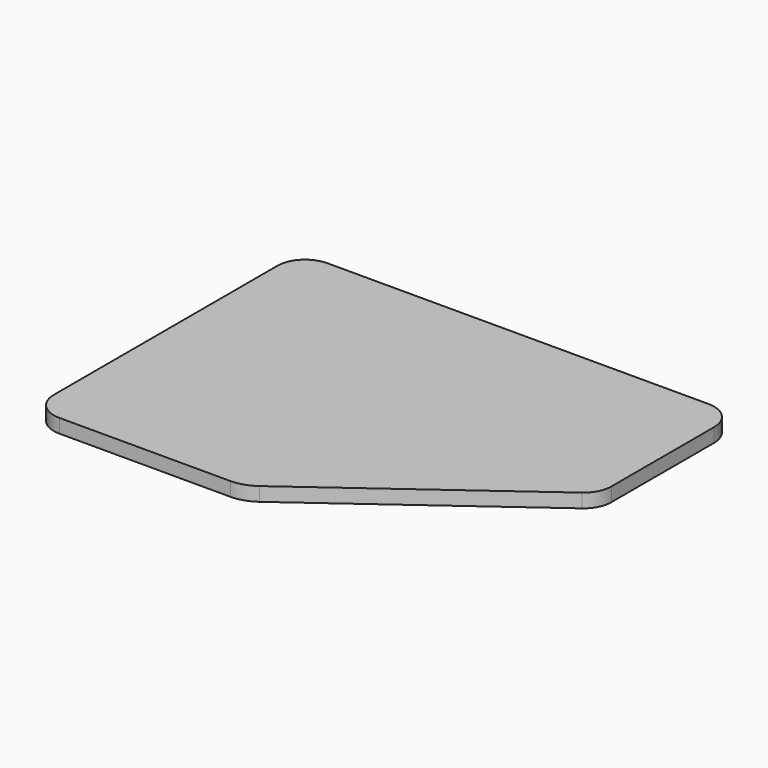
from build123d import *

# Parameters (mm, degrees)
PAD006_DEPTH    = 0.3
POCKET015_DEPTH = 0.001
SKETCH023_W     = 0.500416358
SKETCH023_H     = 5.002047251
SKETCH023_W_2   = 0.25
SKETCH023_W_3   = 0.461841
POCKET016_DEPTH = 0.001


with BuildPart() as part:
    # Sketch021 (on Face1 of Binder006) → Pad006 (new body)
    with BuildSketch(Plane(origin=(0, 0, -9.9), x_dir=(1, 0, 0), z_dir=(0, 0, -1))):
        with BuildLine():
            Line((7.38, 7.32), (7.38, 1.28))
            ThreePointArc((7.38, 1.28), (7.5557359313, 0.8557359313), (7.98, 0.68))
            Line((7.98, 0.68), (16.22, 0.68))
            ThreePointArc((16.22, 0.68), (16.6442640687, 0.8557359313), (16.82, 1.28))
            Line((16.82, 1.28), (16.82, 4.0593629773))
            ThreePointArc((16.82, 4.0593629773), (16.7549416454, 4.3310934246), (16.5738752133, 4.543896086))
            Line((16.5738752133, 4.543896086), (12.1752198046, 7.7564219039))
            ThreePointArc((12.1752198046, 7.7564219039), (11.9375643517, 7.8780713515), (11.6738965857, 7.92))
            Line((11.6738965857, 7.92), (7.98, 7.92))
            ThreePointArc((7.98, 7.92), (7.5557359313, 7.7442640687), (7.38, 7.32))
        make_face()
    extrude(amount=PAD006_DEPTH)

    # Sketch022 (on Face12 of Pad006) → Pocket015 (cut)
    with BuildSketch(Plane(origin=(0, 0, -10.2), x_dir=(1, 0, 0), z_dir=(0, 0, -1))):
        with BuildLine():
            Line((8.5382272485, 6.6994467778), (8.5382272485, 1.9973995268))
            ThreePointArc((8.5382272485, 1.9973995268), (8.655384536, 1.7145568143), (8.9382272485, 1.5973995268))
            Line((8.9382272485, 1.5973995268), (15.4531796461, 1.5973995268))
            ThreePointArc((15.4531796461, 1.5973995268), (15.7360223586, 1.7145568143), (15.8531796461, 1.9973995268))
            Line((15.8531796461, 1.9973995268), (15.8531796461, 4.0046213992))
            ThreePointArc((15.8531796461, 4.0046213992), (15.7989643506, 4.2310634386), (15.6480756572, 4.4083989897))
            Line((15.6480756572, 4.4083989897), (11.9634385277, 7.0994467778))
            Line((11.9634385277, 7.0994467778), (8.9382272485, 7.0994467778))
            ThreePointArc((8.9382272485, 7.0994467778), (8.655384536, 6.9822894903), (8.5382272485, 6.6994467778))
        make_face()
    extrude(amount=-POCKET015_DEPTH, mode=Mode.SUBTRACT)

    # Sketch023 (on Face22 of Pocket015) → Pocket016 (cut)
    with BuildSketch(Plane(origin=(0, 0, -10.199), x_dir=(1, 0, 0), z_dir=(0, 0, -1))):
        Polygon((15.2382783773, 4.3981150688), (15.2382783773, 1.8473995268), (15.6031796461, 1.8473995268), (15.6031796461, 4.1316120951), align=None)
        Polygon((14.9882783773, 4.580700741), (14.9882783773, 1.8473995268), (14.746011823, 1.8473995268), (14.746011823, 4.7576383477), align=None)
        Polygon((14.496011823, 4.9402240199), (14.496011823, 1.8473995268), (13.9360564118, 1.8473995268), (13.9360564118, 5.3491833605), align=None)
        Polygon((13.6860564118, 5.5317690326), (13.6860564118, 1.8473995268), (13.4437898574, 1.8473995268), (13.4437898574, 5.7087066393), align=None)
        Polygon((13.1937898574, 5.8912923115), (13.1937898574, 1.8473995268), (12.681865358, 1.8473995268), (12.681865358, 6.2651726269), align=None)
        Polygon((12.431865358, 6.447758299), (12.431865358, 1.8473995268), (12.131865358, 1.8473995268), (12.131865358, 6.6668611056), align=None)
        with Locations((11.631657179, 4.3484231523)):
            Rectangle(SKETCH023_W, SKETCH023_H)
        with Locations((11.006449, 4.3484231523)):
            Rectangle(SKETCH023_W_2, SKETCH023_H)
        with Locations((10.4005285, 4.3484231523)):
            Rectangle(SKETCH023_W_3, SKETCH023_H)
        with Locations((9.794608, 4.3484231523)):
            Rectangle(SKETCH023_W_2, SKETCH023_H)
        with BuildLine():
            Line((9.419608, 6.8494467778), (9.419608, 1.8473995268))
            Line((9.419608, 1.8473995268), (9.08269333, 1.8473995268))
            ThreePointArc((8.7882272485, 2.161070185), (8.8675882445, 1.9405182967), (9.08269333, 1.8473995268))
            Line((8.7882272485, 2.161070185), (8.7882272485, 6.625654773))
            ThreePointArc((9.0623132914, 6.8494467778), (8.893948417, 6.7759117649), (8.7882272485, 6.625654773))
            Line((9.0623132914, 6.8494467778), (9.419608, 6.8494467778))
        make_face()
    extrude(amount=-POCKET016_DEPTH, mode=Mode.SUBTRACT)


solid = part.part
